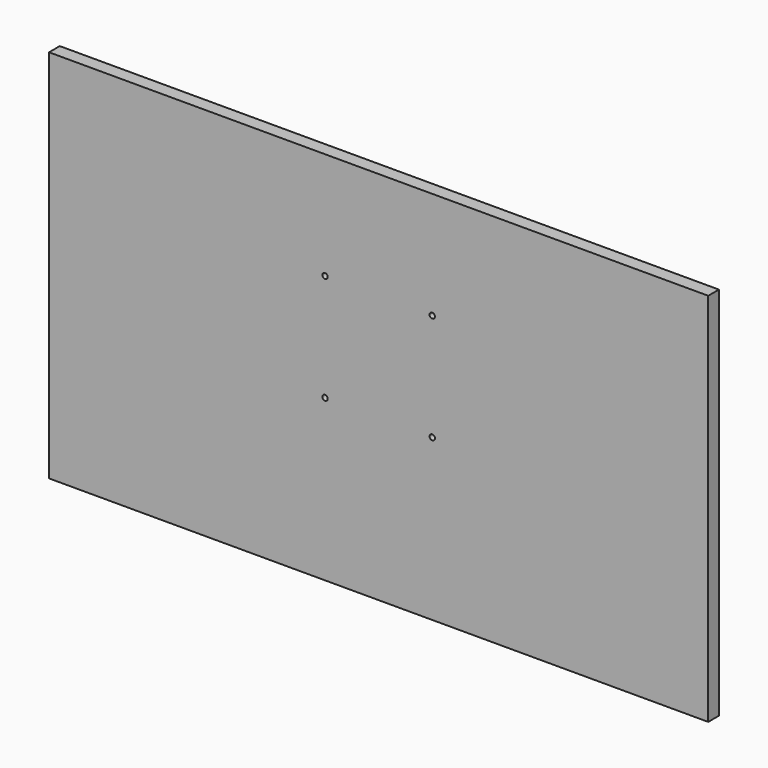
from build123d import *

# Parameters (mm, degrees)
F0_W     = 1230
F0_H     = 700
F1_DEPTH = 25


with BuildPart() as f1:
    # F0 (on Front) → F1 (new body)
    with BuildSketch(Plane.XZ):
        with Locations((615, 350)):
            Rectangle(F0_W, F0_H)
        with BuildLine():
            ThreePointArc((515, 495), (511.4644660941, 503.5355339059), (520, 500))
            Line((520, 500), (710, 500))
            ThreePointArc((710, 500), (715, 505), (720, 500))
            ThreePointArc((720, 500), (718.5355339059, 496.4644660941), (715, 495))
            Line((715, 495), (715, 305))
            ThreePointArc((715, 305), (718.5355339059, 303.5355339059), (720, 300))
            ThreePointArc((720, 300), (715, 295), (710, 300))
            Line((710, 300), (520, 300))
            ThreePointArc((520, 300), (511.4644660941, 296.4644660941), (515, 305))
            Line((515, 305), (515, 495))
        make_face(mode=Mode.SUBTRACT)
        with BuildLine():
            Line((710, 500), (520, 500))
            ThreePointArc((520, 500), (518.5355339059, 496.4644660941), (515, 495))
            Line((515, 495), (515, 305))
            ThreePointArc((515, 305), (518.5355339059, 303.5355339059), (520, 300))
            Line((520, 300), (710, 300))
            ThreePointArc((710, 300), (711.4644660941, 303.5355339059), (715, 305))
            Line((715, 305), (715, 495))
            ThreePointArc((715, 495), (711.4644660941, 496.4644660941), (710, 500))
        make_face()
    extrude(amount=F1_DEPTH)


solid = f1.part
